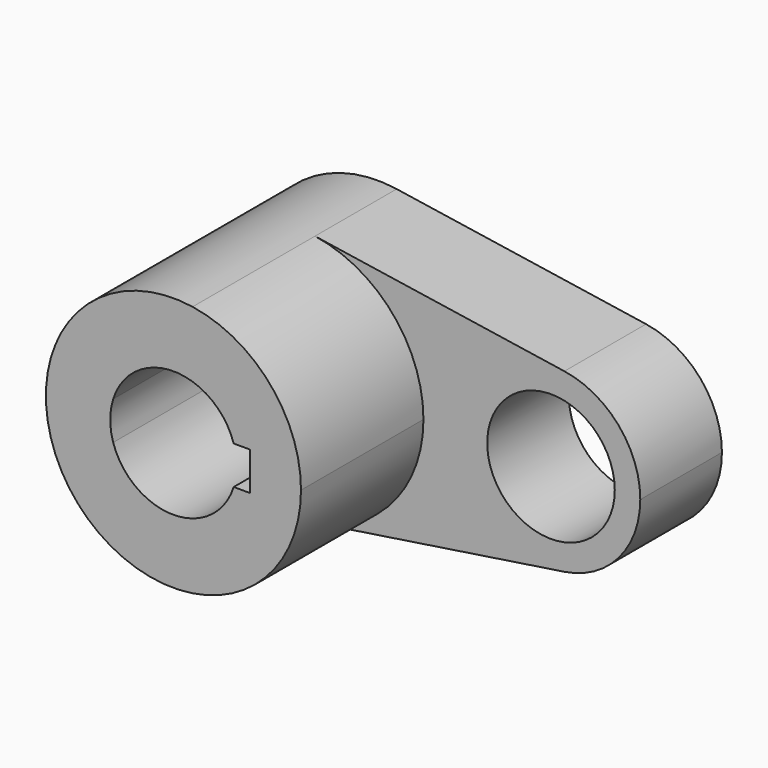
from build123d import *

# Parameters (mm, degrees)
F0_R     = 15.875
F1_DEPTH = 25.4
F2_DEPTH = 63.5


with BuildPart() as f1:
    # F0 (on Front) → F1 (new body)
    with BuildSketch(Plane.XZ):
        with BuildLine():
            ThreePointArc((-14.996868, -4.7625), (-15.734912, 0), (-14.996868, 4.7625))
            Line((-14.996868, 4.7625), (-19.05, 4.7625))
            Line((-19.05, 4.7625), (-19.05, -4.7625))
            Line((-19.05, -4.7625), (-14.996868, -4.7625))
        make_face()
        with BuildLine():
            ThreePointArc((4.7625, -31.39078), (24.07563, -20.698468), (31.75, 0))
            ThreePointArc((31.75, 0), (24.07563, 20.698468), (4.7625, 31.39078))
            ThreePointArc((4.7625, 31.39078), (-31.75, 0), (4.7625, -31.39078))
        make_face()
        with BuildLine():
            ThreePointArc((-14.996868, 4.7625), (0, 15.734912), (14.996868, 4.7625))
            Line((14.996868, 4.7625), (19.05, 4.7625))
            Line((19.05, 4.7625), (19.05, -4.7625))
            Line((19.05, -4.7625), (14.996868, -4.7625))
            ThreePointArc((14.996868, -4.7625), (0, -15.734912), (-14.996868, -4.7625))
            Line((-14.996868, -4.7625), (-19.05, -4.7625))
            Line((-19.05, -4.7625), (-19.05, 4.7625))
            Line((-19.05, 4.7625), (-14.996868, 4.7625))
        make_face(mode=Mode.SUBTRACT)
        with BuildLine():
            ThreePointArc((85.725, 0), (80.352941, 14.488927), (66.83375, 21.973546))
            ThreePointArc((66.83375, 21.973546), (41.275, 0), (66.83375, -21.973546))
            ThreePointArc((66.83375, -21.973546), (80.352941, -14.488927), (85.725, 0))
        make_face()
        with Locations((63.5, 0)):
            Circle(F0_R, mode=Mode.SUBTRACT)
        with BuildLine():
            ThreePointArc((4.7625, 31.39078), (24.07563, 20.698468), (31.75, 0))
            ThreePointArc((31.75, 0), (24.07563, -20.698468), (4.7625, -31.39078))
            Line((4.7625, -31.39078), (66.83375, -21.973546))
            ThreePointArc((66.83375, -21.973546), (41.275, 0), (66.83375, 21.973546))
            Line((66.83375, 21.973546), (4.7625, 31.39078))
        make_face()
    extrude(amount=F1_DEPTH)

    # F0 (on Front) → F2 (join)
    with BuildSketch(Plane.XZ):
        with BuildLine():
            ThreePointArc((4.7625, -31.39078), (24.07563, -20.698468), (31.75, 0))
            ThreePointArc((31.75, 0), (24.07563, 20.698468), (4.7625, 31.39078))
            ThreePointArc((4.7625, 31.39078), (-31.75, 0), (4.7625, -31.39078))
        make_face()
        with BuildLine():
            ThreePointArc((-14.996868, 4.7625), (0, 15.734912), (14.996868, 4.7625))
            Line((14.996868, 4.7625), (19.05, 4.7625))
            Line((19.05, 4.7625), (19.05, -4.7625))
            Line((19.05, -4.7625), (14.996868, -4.7625))
            ThreePointArc((14.996868, -4.7625), (0, -15.734912), (-14.996868, -4.7625))
            Line((-14.996868, -4.7625), (-19.05, -4.7625))
            Line((-19.05, -4.7625), (-19.05, 4.7625))
            Line((-19.05, 4.7625), (-14.996868, 4.7625))
        make_face(mode=Mode.SUBTRACT)
        with BuildLine():
            ThreePointArc((-14.996868, -4.7625), (-15.734912, 0), (-14.996868, 4.7625))
            Line((-14.996868, 4.7625), (-19.05, 4.7625))
            Line((-19.05, 4.7625), (-19.05, -4.7625))
            Line((-19.05, -4.7625), (-14.996868, -4.7625))
        make_face()
    extrude(amount=F2_DEPTH)


solid = f1.part
